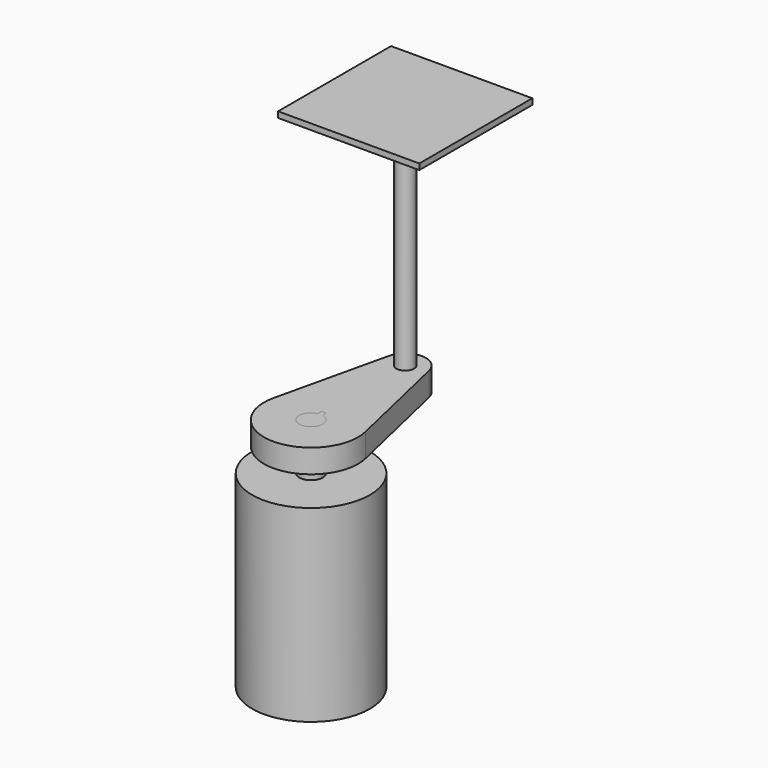
from build123d import *

# Parameters (mm, degrees)
F1_DEPTH      = 19.05
F1_DEPTH_BACK = 6.35
F2_R          = 31.75
F3_DEPTH      = 101.6
F4_R          = 4.7625
F5_DEPTH      = 127
F5_DEPTH_BACK = 6.35
F6_R          = 4.7625
F7_DEPTH      = 6.35
F7_DEPTH_BACK = 6.35
F8_W          = 76.2
F8_H          = 76.2
F9_DEPTH      = 3.175


with BuildPart() as f1:
    # F0 (on Top) → F1 (new body, two sides)
    with BuildSketch(Plane.XY) as f1_sk:
        with BuildLine():
            Line((-1.27, 8.7617039467), (-1.27, 6.2217039467))
            ThreePointArc((-1.27, 6.2217039467), (0, -6.35), (1.27, 6.2217039467))
            Line((1.27, 6.2217039467), (1.27, 8.7617039467))
            Line((1.27, 8.7617039467), (-1.27, 8.7617039467))
        make_face()
    extrude(amount=-F1_DEPTH)
    extrude(f1_sk.sketch, amount=F1_DEPTH_BACK)

    # F2 (on face) → F3 (join)
    with BuildSketch(Plane(origin=(0, 0, -19.05), x_dir=(1, 0, 0), z_dir=(0, 0, -1))):
        Circle(F2_R)
    extrude(amount=F3_DEPTH)


with BuildPart() as f5:
    # F4 (on Top) → F5 (new body, two sides)
    with BuildSketch(Plane.XY) as f5_sk:
        with Locations((0, 63.5)):
            Circle(F4_R)
    extrude(amount=F5_DEPTH)
    extrude(f5_sk.sketch, amount=-F5_DEPTH_BACK)


with BuildPart() as f7:
    # F6 (on Top) → F7 (new body, two sides)
    with BuildSketch(Plane.XY) as f7_sk:
        with BuildLine():
            ThreePointArc((10.8275617593, 66.0003125), (0, 74.6125), (-10.8275617593, 66.0003125))
            Line((-10.8275617593, 66.0003125), (-24.7487125928, 5.715))
            ThreePointArc((-24.7487125928, 5.715), (0, -25.4), (24.7487125928, 5.715))
            Line((24.7487125928, 5.715), (10.8275617593, 66.0003125))
        make_face()
        with BuildLine():
            ThreePointArc((1.27, 6.2217039467), (0, -6.35), (-1.27, 6.2217039467))
            Line((-1.27, 6.2217039467), (-1.27, 8.7617039467))
            Line((-1.27, 8.7617039467), (1.27, 8.7617039467))
            Line((1.27, 8.7617039467), (1.27, 6.2217039467))
        make_face(mode=Mode.SUBTRACT)
        with Locations((0, 63.5)):
            Circle(F6_R, mode=Mode.SUBTRACT)
    extrude(amount=F7_DEPTH)
    extrude(f7_sk.sketch, amount=-F7_DEPTH_BACK)


with BuildPart() as f9:
    # F8 (on face) → F9 (new body)
    with BuildSketch(Plane.XY.offset(127)):
        with Locations((0, 63.5)):
            Rectangle(F8_W, F8_H)
    extrude(amount=F9_DEPTH)


solid = Compound([f1.part, f5.part, f7.part, f9.part])
